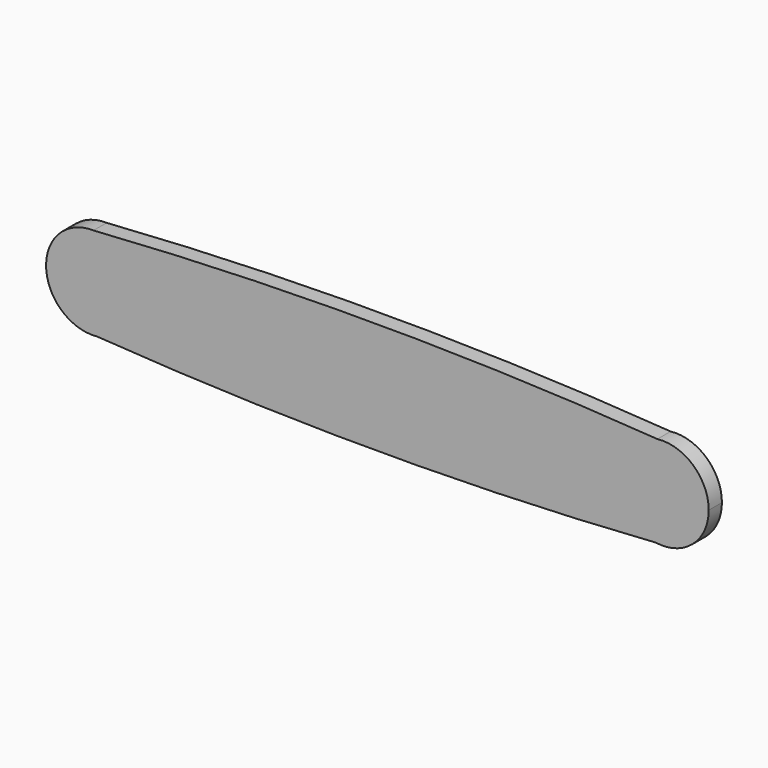
from build123d import *

# Parameters (mm, degrees)
F1_DEPTH = 20


with BuildPart() as f1:
    # F0 (on Front) → F1 (new body)
    with BuildSketch(Plane.XZ):
        with BuildLine():
            ThreePointArc((-339.358097, -55.659185), (-303.494526, -37.510952), (-289.0556, 0))
            ThreePointArc((-289.0556, 0), (-304.953194, 39.064424), (-343.610808, 55.927149))
            ThreePointArc((-343.610808, 55.927149), (-400.903815, -2.130572), (-339.358097, -55.659185))
        make_face()
        with BuildLine():
            ThreePointArc((-343.610808, 55.927149), (-304.953194, 39.064424), (-289.0556, 0))
            Line((-289.0556, 0), (289.0556, 0))
            ThreePointArc((289.0556, 0), (303.326993, 37.324742), (338.85992, 55.606432))
            ThreePointArc((338.85992, 55.606432), (-2.369796, 67.785971), (-343.610808, 55.927149))
        make_face()
        with BuildLine():
            Line((289.0556, 0), (-289.0556, 0))
            ThreePointArc((-289.0556, 0), (-303.494526, -37.510952), (-339.358097, -55.659185))
            ThreePointArc((-339.358097, -55.659185), (-1.290796, -67.293475), (336.765194, -55.335015))
            ThreePointArc((336.765194, -55.335015), (302.629803, -36.531388), (289.0556, 0))
        make_face()
        with BuildLine():
            ThreePointArc((338.85992, 55.606432), (303.326993, 37.324742), (289.0556, 0))
            ThreePointArc((289.0556, 0), (302.629803, -36.531388), (336.765194, -55.335015))
            ThreePointArc((336.765194, -55.335015), (381.531388, -42.370197), (400.9444, 0))
            ThreePointArc((400.9444, 0), (382.324742, 41.673007), (338.85992, 55.606432))
        make_face()
    extrude(amount=F1_DEPTH)


solid = f1.part
